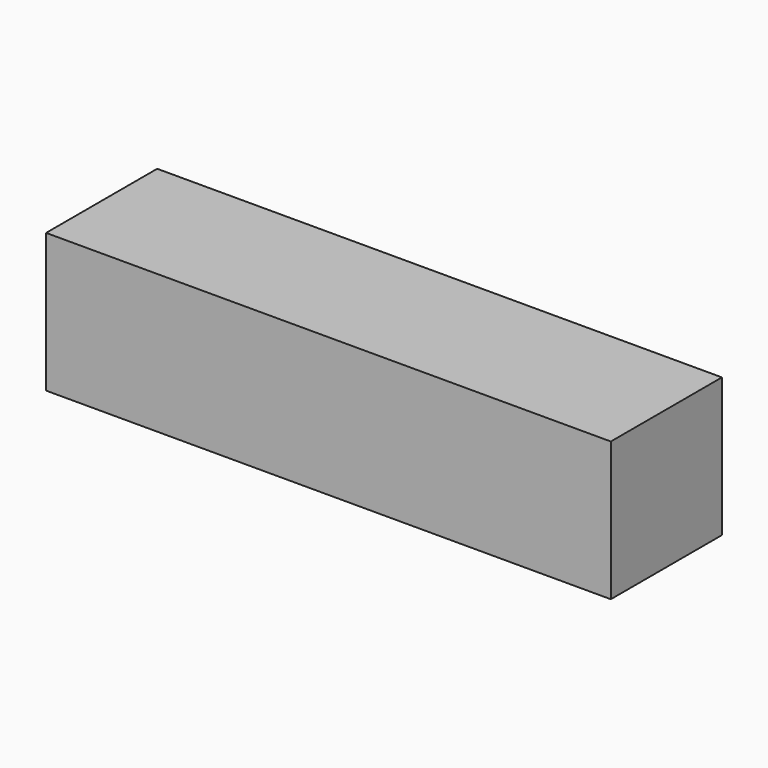
from build123d import *

# Parameters (mm, degrees)
F0_W     = 305
F0_H     = 75
F1_DEPTH = 75
F2_R     = 9.5
F3_DEPTH = 55


with BuildPart() as f1:
    # F0 (on Top) → F1 (new body)
    with BuildSketch(Plane.XY):
        Rectangle(F0_W, F0_H)
    extrude(amount=F1_DEPTH)

    # F2 (on face) → F3 (join)
    with BuildSketch(Plane(origin=(-152.5, 0, 0), x_dir=(0, -1, 0), z_dir=(-1, 0, 0))):
        with Locations((-0.5, 43)):
            Circle(F2_R)
    extrude(amount=-F3_DEPTH)


solid = f1.part
